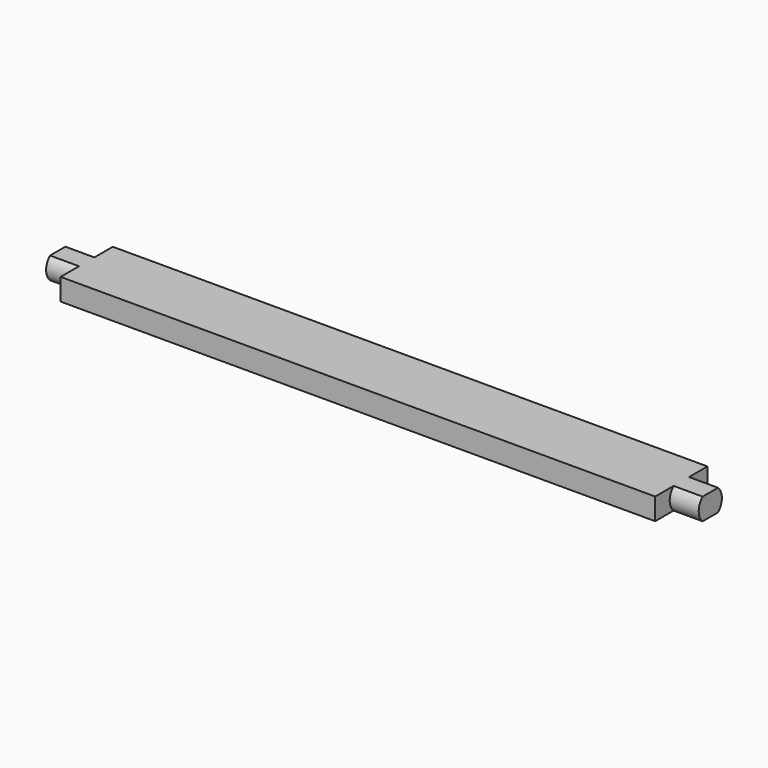
from build123d import *

# Parameters (mm, degrees)
F0_W     = 450
F0_H     = 45
F1_DEPTH = 7.5
F3_DEPTH = 20
F5_DEPTH = 20


with BuildPart() as f1:
    # F0 (on Top) → F1 (new body, symmetric)
    with BuildSketch(Plane.XY):
        Rectangle(F0_W, F0_H)
    extrude(amount=F1_DEPTH, both=True)

    # F2 (on face) → F3 (cut)
    with BuildSketch(Plane.YZ.offset(225)):
        with BuildLine():
            Line((22.5, 7.5), (6.6143782777, 7.5))
            ThreePointArc((6.6143782777, 7.5), (10, 0), (6.6143782777, -7.5))
            Line((6.6143782777, -7.5), (22.5, -7.5))
            Line((22.5, -7.5), (22.5, 7.5))
        make_face()
        with BuildLine():
            ThreePointArc((-6.6143782777, -7.5), (-10, 0), (-6.6143782777, 7.5))
            Line((-6.6143782777, 7.5), (-22.5, 7.5))
            Line((-22.5, 7.5), (-22.5, -7.5))
            Line((-22.5, -7.5), (-6.6143782777, -7.5))
        make_face()
    extrude(amount=-F3_DEPTH, mode=Mode.SUBTRACT)

    # F4 (on face) → F5 (cut)
    with BuildSketch(Plane(origin=(-225, 0, 0), x_dir=(0, -1, 0), z_dir=(-1, 0, 0))):
        with BuildLine():
            Line((22.5, 7.5), (6.6143782777, 7.5))
            ThreePointArc((6.6143782777, 7.5), (10, 0), (6.6143782777, -7.5))
            Line((6.6143782777, -7.5), (22.5, -7.5))
            Line((22.5, -7.5), (22.5, 7.5))
        make_face()
        with BuildLine():
            ThreePointArc((-6.6143782777, -7.5), (-10, 0), (-6.6143782777, 7.5))
            Line((-6.6143782777, 7.5), (-22.5, 7.5))
            Line((-22.5, 7.5), (-22.5, -7.5))
            Line((-22.5, -7.5), (-6.6143782777, -7.5))
        make_face()
    extrude(amount=-F5_DEPTH, mode=Mode.SUBTRACT)


solid = f1.part
